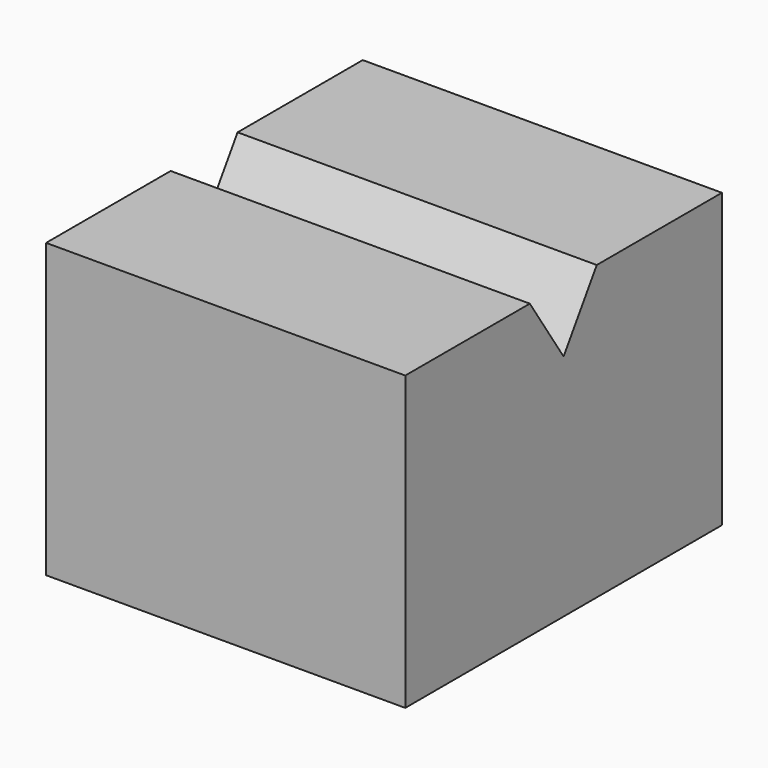
from build123d import *

# Parameters (mm, degrees)
F0_W     = 57.071208
F0_H     = 42.190164
F1_DEPTH = 25.894031
F3_DEPTH = 40


with BuildPart() as f1:
    # F0 (on Right) → F1 (new body, symmetric)
    with BuildSketch(Plane.YZ):
        Rectangle(F0_W, F0_H)
    extrude(amount=F1_DEPTH, both=True)

    # F2 (on Right) → F3 (cut, symmetric)
    with BuildSketch(Plane.YZ):
        Polygon((19.517973, 41.898668), (-20.088434, 42.224638), (0, 11.91029), align=None)
    extrude(amount=F3_DEPTH, both=True, mode=Mode.SUBTRACT)


solid = f1.part
